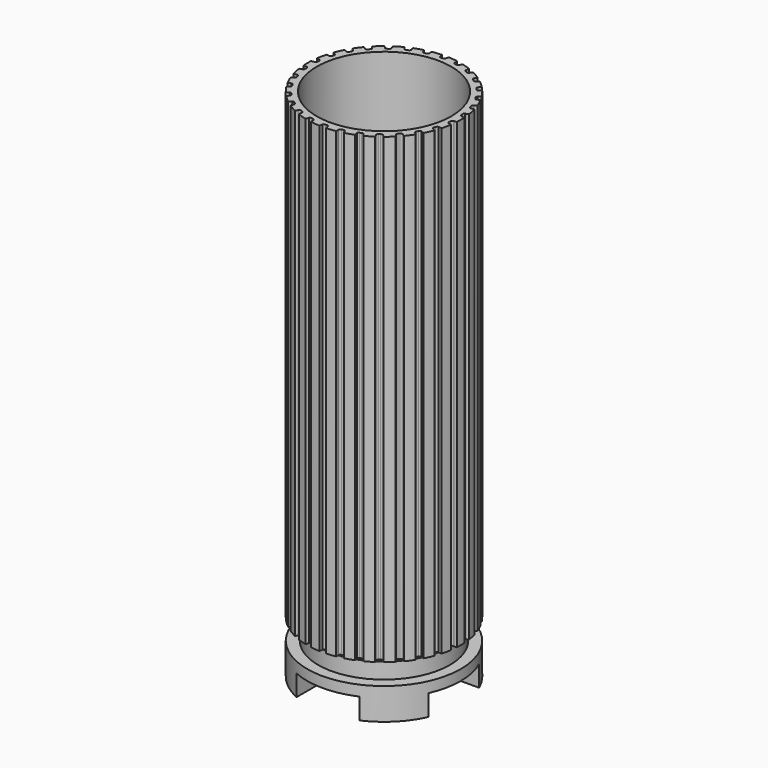
from build123d import *

# Parameters (mm, degrees)
CYLINDER001_R          = 36.5
CYLINDER001_DEPTH      = 400
CYLINDER002_R          = 100
CYLINDER002_DEPTH      = 400
CYLINDER_R             = 32
CYLINDER_DEPTH         = 240
PAD_DEPTH              = 220
CYLINDER006_R          = 19
CYLINDER006_DEPTH      = 55
CYLINDER005_R          = 15
CYLINDER005_DEPTH      = 90
BOX_W                  = 100
BOX_H                  = 30
BOX_DEPTH              = 10
BOX001_W               = 100
BOX001_H               = 30
BOX001_DEPTH           = 10
BOX001_PLACEMENT_ANGLE = 90
CYLINDER003_R          = 36.5
CYLINDER003_DEPTH      = 15
CYLINDER004_R          = 31.3
CYLINDER004_DEPTH      = 22.5
BOX002_W               = 100
BOX002_H               = 30
BOX002_DEPTH           = 10
BOX003_W               = 100
BOX003_H               = 30
BOX003_DEPTH           = 10
BOX003_PLACEMENT_ANGLE = 90
CYLINDER007_R          = 22
CYLINDER007_DEPTH      = 60
CHAMFER_SIZE           = 3


with BuildPart() as cylinder001:
    # Cylinder001 → Cylinder001 (new body)
    with BuildSketch(Plane.XY):
        Circle(CYLINDER001_R)
    extrude(amount=CYLINDER001_DEPTH)


with BuildPart() as cut001:
    # Cylinder002 → Cylinder002 (new body)
    with BuildSketch(Plane.XY):
        Circle(CYLINDER002_R)
    extrude(amount=CYLINDER002_DEPTH)

    # Cut001: cut Cylinder001
    add(cylinder001.part, mode=Mode.SUBTRACT)


with BuildPart() as cylinder:
    # Cylinder → Cylinder (new body)
    with BuildSketch(Plane.XY.offset(-10)):
        Circle(CYLINDER_R)
    extrude(amount=CYLINDER_DEPTH)


with BuildPart() as shade:
    # InvoluteGear → Pad (new body)
    with BuildSketch(Plane.XY):
        with BuildLine():
            Line((34.920851, -2.352474), (35.210847, -2.370096))
            add(Edge.make_bspline(
                [(35.210847, -2.370096), (35.34891, -2.371906), (35.765082, -2.362435), (36.457725, -2.219265)],
                knots=[0, 0, 0, 0, 1, 1, 1, 1], degree=3))
            add(Edge.make_bspline(
                [(36.457725, -2.219265), (37.288232, -2.045697), (38.490143, -1.681478), (39.991928, -0.920792)],
                knots=[0, 0, 0, 0, 1, 1, 1, 1], degree=3))
            ThreePointArc((39.991928, -0.920792), (40.002527, 0), (39.991928, 0.920792))
            add(Edge.make_bspline(
                [(39.991928, 0.920792), (38.490143, 1.681478), (37.288232, 2.045697), (36.457725, 2.219265)],
                knots=[0, 0, 0, 0, 1, 1, 1, 1], degree=3))
            add(Edge.make_bspline(
                [(36.457725, 2.219265), (35.765082, 2.362435), (35.34891, 2.371906), (35.210847, 2.370096)],
                knots=[0, 0, 0, 0, 1, 1, 1, 1], degree=3))
            Line((35.210847, 2.370096), (34.920851, 2.352474))
            ThreePointArc((34.920851, 2.352474), (34.429753, 2.671588), (34.223866, 3.219878))
            ThreePointArc((34.223866, 3.219878), (34.18669, 3.593166), (34.145443, 3.966026))
            ThreePointArc((34.145443, 3.966026), (34.232835, 4.545141), (34.646854, 4.959386))
            Line((34.646854, 4.959386), (34.934177, 5.002443))
            add(Edge.make_bspline(
                [(34.934177, 5.002443), (35.069599, 5.029378), (35.474707, 5.125169), (36.122448, 5.409219)],
                knots=[0, 0, 0, 0, 1, 1, 1, 1], degree=3))
            add(Edge.make_bspline(
                [(36.122448, 5.409219), (36.898719, 5.751666), (37.99864, 6.357817), (39.309452, 7.414119)],
                knots=[0, 0, 0, 0, 1, 1, 1, 1], degree=3))
            ThreePointArc((39.309452, 7.414119), (39.128376, 8.316993), (38.926565, 9.21546))
            add(Edge.make_bspline(
                [(38.926565, 9.21546), (37.299442, 9.647284), (36.048071, 9.753653), (35.199625, 9.750756)],
                knots=[0, 0, 0, 0, 1, 1, 1, 1], degree=3))
            add(Edge.make_bspline(
                [(35.199625, 9.750756), (34.492351, 9.746788), (34.083305, 9.669526), (33.948635, 9.639051)],
                knots=[0, 0, 0, 0, 1, 1, 1, 1], degree=3))
            Line((33.948635, 9.639051), (33.66864, 9.56152))
            ThreePointArc((33.66864, 9.56152), (33.121926, 9.771556), (32.806542, 10.265058))
            ThreePointArc((32.806542, 10.265058), (32.692568, 10.622459), (32.5747, 10.978595))
            ThreePointArc((32.5747, 10.978595), (32.539777, 11.563225), (32.858623, 12.054498))
            Line((32.858623, 12.054498), (33.130715, 12.156352))
            add(Edge.make_bspline(
                [(33.130715, 12.156352), (33.257577, 12.210853), (33.633917, 12.388778), (34.208446, 12.801294)],
                knots=[0, 0, 0, 0, 1, 1, 1, 1], degree=3))
            add(Edge.make_bspline(
                [(34.208446, 12.801294), (34.896555, 13.297653), (35.846414, 14.119245), (36.908964, 15.424997)],
                knots=[0, 0, 0, 0, 1, 1, 1, 1], degree=3))
            ThreePointArc((36.908964, 15.424997), (36.544127, 16.270494), (36.159924, 17.107368))
            add(Edge.make_bspline(
                [(36.159924, 17.107368), (34.478576, 17.191458), (33.232435, 17.035327), (32.403133, 16.856092)],
                knots=[0, 0, 0, 0, 1, 1, 1, 1], degree=3))
            add(Edge.make_bspline(
                [(32.403133, 16.856092), (31.71214, 16.705161), (31.328095, 16.544541), (31.202705, 16.486732)],
                knots=[0, 0, 0, 0, 1, 1, 1, 1], degree=3))
            Line((31.202705, 16.486732), (30.944948, 16.352682))
            ThreePointArc((30.944948, 16.352682), (30.366512, 16.444459), (29.955415, 16.861605))
            ThreePointArc((29.955415, 16.861605), (29.769623, 17.1875), (29.580286, 17.511348))
            ThreePointArc((29.580286, 17.511348), (29.424575, 18.075941), (29.634312, 18.62277))
            Line((29.634312, 18.62277), (29.879281, 18.778969))
            add(Edge.make_bspline(
                [(29.879281, 18.778969), (29.99204, 18.858656), (30.323163, 19.110938), (30.79937, 19.63389)],
                knots=[0, 0, 0, 0, 1, 1, 1, 1], degree=3))
            add(Edge.make_bspline(
                [(30.79937, 19.63389), (31.369244, 20.26247), (32.127527, 21.263594), (32.895377, 22.761729)],
                knots=[0, 0, 0, 0, 1, 1, 1, 1], degree=3))
            ThreePointArc((32.895377, 22.761729), (32.362724, 23.512896), (31.812921, 24.251602))
            add(Edge.make_bspline(
                [(31.812921, 24.251602), (30.150831, 23.984282), (28.964383, 23.572476), (28.190468, 23.224736)],
                knots=[0, 0, 0, 0, 1, 1, 1, 1], degree=3))
            add(Edge.make_bspline(
                [(28.190468, 23.224736), (27.545955, 22.933438), (27.203698, 22.69648), (27.093067, 22.613865)],
                knots=[0, 0, 0, 0, 1, 1, 1, 1], degree=3))
            Line((27.093067, 22.613865), (26.868813, 22.429153))
            ThreePointArc((26.868813, 22.429153), (26.283935, 22.398661), (25.795092, 22.72122))
            ThreePointArc((25.795092, 22.72122), (25.545603, 23.001365), (25.293072, 23.27877))
            ThreePointArc((25.293072, 23.27877), (25.023378, 23.798651), (25.11484, 24.377138))
            Line((25.11484, 24.377138), (25.32198, 24.580855))
            add(Edge.make_bspline(
                [(25.32198, 24.580855), (25.415707, 24.682245), (25.687142, 24.997858), (26.044215, 25.608392)],
                knots=[0, 0, 0, 0, 1, 1, 1, 1], degree=3))
            add(Edge.make_bspline(
                [(26.044215, 25.608392), (26.470946, 26.341719), (27.004514, 27.478622), (27.444105, 29.103664)],
                knots=[0, 0, 0, 0, 1, 1, 1, 1], degree=3))
            ThreePointArc((27.444105, 29.103664), (26.766915, 29.727671), (26.075541, 30.335924))
            add(Edge.make_bspline(
                [(26.075541, 30.335924), (24.505351, 29.728879), (23.430449, 29.079395), (22.745745, 28.578348)],
                knots=[0, 0, 0, 0, 1, 1, 1, 1], degree=3))
            add(Edge.make_bspline(
                [(22.745745, 28.578348), (22.17588, 28.159413), (21.890368, 27.856474), (21.799331, 27.752663)],
                knots=[0, 0, 0, 0, 1, 1, 1, 1], degree=3))
            Line((21.799331, 27.752663), (21.618381, 27.525363))
            ThreePointArc((21.618381, 27.525363), (21.052625, 27.373934), (20.507401, 27.587808))
            ThreePointArc((20.507401, 27.587808), (20.205118, 27.809959), (19.900429, 28.028798))
            ThreePointArc((19.900429, 28.028798), (19.52854, 28.481247), (19.497728, 29.066107))
            Line((19.497728, 29.066107), (19.657987, 29.30844))
            add(Edge.make_bspline(
                [(19.657987, 29.30844), (19.728586, 29.427101), (19.928469, 29.792252), (20.150802, 30.463684)],
                knots=[0, 0, 0, 0, 1, 1, 1, 1], degree=3))
            add(Edge.make_bspline(
                [(20.150802, 30.463684), (20.415742, 31.269708), (20.701274, 32.492702), (20.793393, 34.173629)],
                knots=[0, 0, 0, 0, 1, 1, 1, 1], degree=3))
            ThreePointArc((20.793393, 34.173629), (20.001264, 34.643205), (19.198535, 35.094421))
            add(Edge.make_bspline(
                [(19.198535, 35.094421), (17.788869, 34.17418), (16.872491, 33.315405), (16.306923, 32.682949)],
                knots=[0, 0, 0, 0, 1, 1, 1, 1], degree=3))
            add(Edge.make_bspline(
                [(16.306923, 32.682949), (15.836613, 32.154687), (15.620324, 31.799007), (15.55286, 31.678536)],
                knots=[0, 0, 0, 0, 1, 1, 1, 1], degree=3))
            Line((15.55286, 31.678536), (15.423123, 31.418582))
            ThreePointArc((15.423123, 31.418582), (14.901213, 31.152835), (14.323437, 31.248677))
            ThreePointArc((14.323437, 31.248677), (13.981572, 31.403125), (13.638042, 31.553834))
            ThreePointArc((13.638042, 31.553834), (13.18021, 31.919075), (13.028473, 32.484749))
            Line((13.028473, 32.484749), (13.134845, 32.755106))
            add(Edge.make_bspline(
                [(13.134845, 32.755106), (13.17923, 32.885852), (13.298827, 33.284582), (13.376703, 33.987567)],
                knots=[0, 0, 0, 0, 1, 1, 1, 1], degree=3))
            add(Edge.make_bspline(
                [(13.376703, 33.987567), (13.468271, 34.831061), (13.493289, 36.086696), (13.23391, 37.750043)],
                knots=[0, 0, 0, 0, 1, 1, 1, 1], degree=3))
            ThreePointArc((13.23391, 37.750043), (12.361461, 38.044664), (11.48246, 38.319124))
            add(Edge.make_bspline(
                [(11.48246, 38.319124), (10.294928, 37.125906), (9.577124, 36.095371), (9.155411, 35.359148)],
                knots=[0, 0, 0, 0, 1, 1, 1, 1], degree=3))
            add(Edge.make_bspline(
                [(9.155411, 35.359148), (8.805209, 34.744647), (8.667598, 34.351771), (8.626655, 34.219906)],
                knots=[0, 0, 0, 0, 1, 1, 1, 1], degree=3))
            Line((8.626655, 34.219906), (8.553801, 33.938658))
            ThreePointArc((8.553801, 33.938658), (8.098547, 33.570207), (7.51347, 33.543828))
            ThreePointArc((7.51347, 33.543828), (7.146964, 33.623824), (6.779607, 33.699815))
            ThreePointArc((6.779607, 33.699815), (6.255842, 33.961886), (5.98981, 34.483651))
            Line((5.98981, 34.483651), (6.037648, 34.770216))
            add(Edge.make_bspline(
                [(6.037648, 34.770216), (6.053879, 34.907334), (6.087962, 35.322216), (6.017977, 36.02603)],
                knots=[0, 0, 0, 0, 1, 1, 1, 1], degree=3))
            add(Edge.make_bspline(
                [(6.017977, 36.02603), (5.932172, 36.87013), (5.695582, 38.103527), (5.096042, 39.676599)],
                knots=[0, 0, 0, 0, 1, 1, 1, 1], degree=3))
            ThreePointArc((5.096042, 39.676599), (4.181403, 39.783389), (3.264547, 39.869097))
            add(Edge.make_bspline(
                [(3.264547, 39.869097), (2.351049, 38.455052), (1.863191, 37.297797), (1.603763, 36.489982)],
                knots=[0, 0, 0, 0, 1, 1, 1, 1], degree=3))
            add(Edge.make_bspline(
                [(1.603763, 36.489982), (1.388976, 35.816099), (1.336055, 35.403197), (1.323423, 35.265701)],
                knots=[0, 0, 0, 0, 1, 1, 1, 1], degree=3))
            Line((1.323423, 35.265701), (1.310636, 34.975452))
            ThreePointArc((1.310636, 34.975452), (0.941936, 34.5204), (0.375129, 34.372953))
            ThreePointArc((0.375129, 34.372953), (0, 34.375), (-0.375129, 34.372953))
            ThreePointArc((-0.375129, 34.372953), (-0.941936, 34.5204), (-1.310636, 34.975452))
            Line((-1.310636, 34.975452), (-1.323423, 35.265701))
            add(Edge.make_bspline(
                [(-1.323423, 35.265701), (-1.336055, 35.403197), (-1.388976, 35.816099), (-1.603763, 36.489982)],
                knots=[0, 0, 0, 0, 1, 1, 1, 1], degree=3))
            add(Edge.make_bspline(
                [(-1.603763, 36.489982), (-1.863191, 37.297797), (-2.351049, 38.455052), (-3.264547, 39.869097)],
                knots=[0, 0, 0, 0, 1, 1, 1, 1], degree=3))
            ThreePointArc((-3.264547, 39.869097), (-4.181403, 39.783389), (-5.096042, 39.676599))
            add(Edge.make_bspline(
                [(-5.096042, 39.676599), (-5.695582, 38.103527), (-5.932172, 36.87013), (-6.017977, 36.02603)],
                knots=[0, 0, 0, 0, 1, 1, 1, 1], degree=3))
            add(Edge.make_bspline(
                [(-6.017977, 36.02603), (-6.087962, 35.322216), (-6.053879, 34.907334), (-6.037648, 34.770216)],
                knots=[0, 0, 0, 0, 1, 1, 1, 1], degree=3))
            Line((-6.037648, 34.770216), (-5.98981, 34.483651))
            ThreePointArc((-5.98981, 34.483651), (-6.255842, 33.961886), (-6.779607, 33.699815))
            ThreePointArc((-6.779607, 33.699815), (-7.146964, 33.623824), (-7.51347, 33.543828))
            ThreePointArc((-7.51347, 33.543828), (-8.098547, 33.570207), (-8.553801, 33.938658))
            Line((-8.553801, 33.938658), (-8.626655, 34.219906))
            add(Edge.make_bspline(
                [(-8.626655, 34.219906), (-8.667598, 34.351771), (-8.805209, 34.744647), (-9.155411, 35.359148)],
                knots=[0, 0, 0, 0, 1, 1, 1, 1], degree=3))
            add(Edge.make_bspline(
                [(-9.155411, 35.359148), (-9.577124, 36.095371), (-10.294928, 37.125906), (-11.48246, 38.319124)],
                knots=[0, 0, 0, 0, 1, 1, 1, 1], degree=3))
            ThreePointArc((-11.48246, 38.319124), (-12.361461, 38.044664), (-13.23391, 37.750043))
            add(Edge.make_bspline(
                [(-13.23391, 37.750043), (-13.493289, 36.086696), (-13.468271, 34.831061), (-13.376703, 33.987567)],
                knots=[0, 0, 0, 0, 1, 1, 1, 1], degree=3))
            add(Edge.make_bspline(
                [(-13.376703, 33.987567), (-13.298827, 33.284582), (-13.17923, 32.885852), (-13.134845, 32.755106)],
                knots=[0, 0, 0, 0, 1, 1, 1, 1], degree=3))
            Line((-13.134845, 32.755106), (-13.028473, 32.484749))
            ThreePointArc((-13.028473, 32.484749), (-13.18021, 31.919075), (-13.638042, 31.553834))
            ThreePointArc((-13.638042, 31.553834), (-13.981572, 31.403125), (-14.323437, 31.248677))
            ThreePointArc((-14.323437, 31.248677), (-14.901213, 31.152835), (-15.423123, 31.418582))
            Line((-15.423123, 31.418582), (-15.55286, 31.678536))
            add(Edge.make_bspline(
                [(-15.55286, 31.678536), (-15.620324, 31.799007), (-15.836613, 32.154687), (-16.306923, 32.682949)],
                knots=[0, 0, 0, 0, 1, 1, 1, 1], degree=3))
            add(Edge.make_bspline(
                [(-16.306923, 32.682949), (-16.872491, 33.315405), (-17.788869, 34.17418), (-19.198535, 35.094421)],
                knots=[0, 0, 0, 0, 1, 1, 1, 1], degree=3))
            ThreePointArc((-19.198535, 35.094421), (-20.001264, 34.643205), (-20.793393, 34.173629))
            add(Edge.make_bspline(
                [(-20.793393, 34.173629), (-20.701274, 32.492702), (-20.415742, 31.269708), (-20.150802, 30.463684)],
                knots=[0, 0, 0, 0, 1, 1, 1, 1], degree=3))
            add(Edge.make_bspline(
                [(-20.150802, 30.463684), (-19.928469, 29.792252), (-19.728586, 29.427101), (-19.657987, 29.30844)],
                knots=[0, 0, 0, 0, 1, 1, 1, 1], degree=3))
            Line((-19.657987, 29.30844), (-19.497728, 29.066107))
            ThreePointArc((-19.497728, 29.066107), (-19.52854, 28.481247), (-19.900429, 28.028798))
            ThreePointArc((-19.900429, 28.028798), (-20.205118, 27.809959), (-20.507401, 27.587808))
            ThreePointArc((-20.507401, 27.587808), (-21.052625, 27.373934), (-21.618381, 27.525363))
            Line((-21.618381, 27.525363), (-21.799331, 27.752663))
            add(Edge.make_bspline(
                [(-21.799331, 27.752663), (-21.890368, 27.856474), (-22.17588, 28.159413), (-22.745745, 28.578348)],
                knots=[0, 0, 0, 0, 1, 1, 1, 1], degree=3))
            add(Edge.make_bspline(
                [(-22.745745, 28.578348), (-23.430449, 29.079395), (-24.505351, 29.728879), (-26.075541, 30.335924)],
                knots=[0, 0, 0, 0, 1, 1, 1, 1], degree=3))
            ThreePointArc((-26.075541, 30.335924), (-26.766915, 29.727671), (-27.444105, 29.103664))
            add(Edge.make_bspline(
                [(-27.444105, 29.103664), (-27.004514, 27.478622), (-26.470946, 26.341719), (-26.044215, 25.608392)],
                knots=[0, 0, 0, 0, 1, 1, 1, 1], degree=3))
            add(Edge.make_bspline(
                [(-26.044215, 25.608392), (-25.687142, 24.997858), (-25.415707, 24.682245), (-25.32198, 24.580855)],
                knots=[0, 0, 0, 0, 1, 1, 1, 1], degree=3))
            Line((-25.32198, 24.580855), (-25.11484, 24.377138))
            ThreePointArc((-25.11484, 24.377138), (-25.023378, 23.798651), (-25.293072, 23.27877))
            ThreePointArc((-25.293072, 23.27877), (-25.545603, 23.001365), (-25.795092, 22.72122))
            ThreePointArc((-25.795092, 22.72122), (-26.283935, 22.398661), (-26.868813, 22.429153))
            Line((-26.868813, 22.429153), (-27.093067, 22.613865))
            add(Edge.make_bspline(
                [(-27.093067, 22.613865), (-27.203698, 22.69648), (-27.545955, 22.933438), (-28.190468, 23.224736)],
                knots=[0, 0, 0, 0, 1, 1, 1, 1], degree=3))
            add(Edge.make_bspline(
                [(-28.190468, 23.224736), (-28.964383, 23.572476), (-30.150831, 23.984282), (-31.812921, 24.251602)],
                knots=[0, 0, 0, 0, 1, 1, 1, 1], degree=3))
            ThreePointArc((-31.812921, 24.251602), (-32.362724, 23.512896), (-32.895377, 22.761729))
            add(Edge.make_bspline(
                [(-32.895377, 22.761729), (-32.127527, 21.263594), (-31.369244, 20.26247), (-30.79937, 19.63389)],
                knots=[0, 0, 0, 0, 1, 1, 1, 1], degree=3))
            add(Edge.make_bspline(
                [(-30.79937, 19.63389), (-30.323163, 19.110938), (-29.99204, 18.858656), (-29.879281, 18.778969)],
                knots=[0, 0, 0, 0, 1, 1, 1, 1], degree=3))
            Line((-29.879281, 18.778969), (-29.634312, 18.62277))
            ThreePointArc((-29.634312, 18.62277), (-29.424575, 18.075941), (-29.580286, 17.511348))
            ThreePointArc((-29.580286, 17.511348), (-29.769623, 17.1875), (-29.955415, 16.861605))
            ThreePointArc((-29.955415, 16.861605), (-30.366512, 16.444459), (-30.944948, 16.352682))
            Line((-30.944948, 16.352682), (-31.202705, 16.486732))
            add(Edge.make_bspline(
                [(-31.202705, 16.486732), (-31.328095, 16.544541), (-31.71214, 16.705161), (-32.403133, 16.856092)],
                knots=[0, 0, 0, 0, 1, 1, 1, 1], degree=3))
            add(Edge.make_bspline(
                [(-32.403133, 16.856092), (-33.232435, 17.035327), (-34.478576, 17.191458), (-36.159924, 17.107368)],
                knots=[0, 0, 0, 0, 1, 1, 1, 1], degree=3))
            ThreePointArc((-36.159924, 17.107368), (-36.544127, 16.270494), (-36.908964, 15.424997))
            add(Edge.make_bspline(
                [(-36.908964, 15.424997), (-35.846414, 14.119245), (-34.896555, 13.297653), (-34.208446, 12.801294)],
                knots=[0, 0, 0, 0, 1, 1, 1, 1], degree=3))
            add(Edge.make_bspline(
                [(-34.208446, 12.801294), (-33.633917, 12.388778), (-33.257577, 12.210853), (-33.130715, 12.156352)],
                knots=[0, 0, 0, 0, 1, 1, 1, 1], degree=3))
            Line((-33.130715, 12.156352), (-32.858623, 12.054498))
            ThreePointArc((-32.858623, 12.054498), (-32.539777, 11.563225), (-32.5747, 10.978595))
            ThreePointArc((-32.5747, 10.978595), (-32.692568, 10.622459), (-32.806542, 10.265058))
            ThreePointArc((-32.806542, 10.265058), (-33.121926, 9.771556), (-33.66864, 9.56152))
            Line((-33.66864, 9.56152), (-33.948635, 9.639051))
            add(Edge.make_bspline(
                [(-33.948635, 9.639051), (-34.083305, 9.669526), (-34.492351, 9.746788), (-35.199625, 9.750756)],
                knots=[0, 0, 0, 0, 1, 1, 1, 1], degree=3))
            add(Edge.make_bspline(
                [(-35.199625, 9.750756), (-36.048071, 9.753653), (-37.299442, 9.647284), (-38.926565, 9.21546)],
                knots=[0, 0, 0, 0, 1, 1, 1, 1], degree=3))
            ThreePointArc((-38.926565, 9.21546), (-39.128376, 8.316993), (-39.309452, 7.414119))
            add(Edge.make_bspline(
                [(-39.309452, 7.414119), (-37.99864, 6.357817), (-36.898719, 5.751666), (-36.122448, 5.409219)],
                knots=[0, 0, 0, 0, 1, 1, 1, 1], degree=3))
            add(Edge.make_bspline(
                [(-36.122448, 5.409219), (-35.474707, 5.125169), (-35.069599, 5.029378), (-34.934177, 5.002443)],
                knots=[0, 0, 0, 0, 1, 1, 1, 1], degree=3))
            Line((-34.934177, 5.002443), (-34.646854, 4.959386))
            ThreePointArc((-34.646854, 4.959386), (-34.232835, 4.545141), (-34.145443, 3.966026))
            ThreePointArc((-34.145443, 3.966026), (-34.18669, 3.593166), (-34.223866, 3.219878))
            ThreePointArc((-34.223866, 3.219878), (-34.429753, 2.671588), (-34.920851, 2.352474))
            Line((-34.920851, 2.352474), (-35.210847, 2.370096))
            add(Edge.make_bspline(
                [(-35.210847, 2.370096), (-35.34891, 2.371906), (-35.765082, 2.362435), (-36.457725, 2.219265)],
                knots=[0, 0, 0, 0, 1, 1, 1, 1], degree=3))
            add(Edge.make_bspline(
                [(-36.457725, 2.219265), (-37.288232, 2.045697), (-38.490143, 1.681478), (-39.991928, 0.920792)],
                knots=[0, 0, 0, 0, 1, 1, 1, 1], degree=3))
            ThreePointArc((-39.991928, 0.920792), (-40.002527, 0), (-39.991928, -0.920792))
            add(Edge.make_bspline(
                [(-39.991928, -0.920792), (-38.490143, -1.681478), (-37.288232, -2.045697), (-36.457725, -2.219265)],
                knots=[0, 0, 0, 0, 1, 1, 1, 1], degree=3))
            add(Edge.make_bspline(
                [(-36.457725, -2.219265), (-35.765082, -2.362435), (-35.34891, -2.371906), (-35.210847, -2.370096)],
                knots=[0, 0, 0, 0, 1, 1, 1, 1], degree=3))
            Line((-35.210847, -2.370096), (-34.920851, -2.352474))
            ThreePointArc((-34.920851, -2.352474), (-34.429753, -2.671588), (-34.223866, -3.219878))
            ThreePointArc((-34.223866, -3.219878), (-34.18669, -3.593166), (-34.145443, -3.966026))
            ThreePointArc((-34.145443, -3.966026), (-34.232835, -4.545141), (-34.646854, -4.959386))
            Line((-34.646854, -4.959386), (-34.934177, -5.002443))
            add(Edge.make_bspline(
                [(-34.934177, -5.002443), (-35.069599, -5.029378), (-35.474707, -5.125169), (-36.122448, -5.409219)],
                knots=[0, 0, 0, 0, 1, 1, 1, 1], degree=3))
            add(Edge.make_bspline(
                [(-36.122448, -5.409219), (-36.898719, -5.751666), (-37.99864, -6.357817), (-39.309452, -7.414119)],
                knots=[0, 0, 0, 0, 1, 1, 1, 1], degree=3))
            ThreePointArc((-39.309452, -7.414119), (-39.128376, -8.316993), (-38.926565, -9.21546))
            add(Edge.make_bspline(
                [(-38.926565, -9.21546), (-37.299442, -9.647284), (-36.048071, -9.753653), (-35.199625, -9.750756)],
                knots=[0, 0, 0, 0, 1, 1, 1, 1], degree=3))
            add(Edge.make_bspline(
                [(-35.199625, -9.750756), (-34.492351, -9.746788), (-34.083305, -9.669526), (-33.948635, -9.639051)],
                knots=[0, 0, 0, 0, 1, 1, 1, 1], degree=3))
            Line((-33.948635, -9.639051), (-33.66864, -9.56152))
            ThreePointArc((-33.66864, -9.56152), (-33.121926, -9.771556), (-32.806542, -10.265058))
            ThreePointArc((-32.806542, -10.265058), (-32.692568, -10.622459), (-32.5747, -10.978595))
            ThreePointArc((-32.5747, -10.978595), (-32.539777, -11.563225), (-32.858623, -12.054498))
            Line((-32.858623, -12.054498), (-33.130715, -12.156352))
            add(Edge.make_bspline(
                [(-33.130715, -12.156352), (-33.257577, -12.210853), (-33.633917, -12.388778), (-34.208446, -12.801294)],
                knots=[0, 0, 0, 0, 1, 1, 1, 1], degree=3))
            add(Edge.make_bspline(
                [(-34.208446, -12.801294), (-34.896555, -13.297653), (-35.846414, -14.119245), (-36.908964, -15.424997)],
                knots=[0, 0, 0, 0, 1, 1, 1, 1], degree=3))
            ThreePointArc((-36.908964, -15.424997), (-36.544127, -16.270494), (-36.159924, -17.107368))
            add(Edge.make_bspline(
                [(-36.159924, -17.107368), (-34.478576, -17.191458), (-33.232435, -17.035327), (-32.403133, -16.856092)],
                knots=[0, 0, 0, 0, 1, 1, 1, 1], degree=3))
            add(Edge.make_bspline(
                [(-32.403133, -16.856092), (-31.71214, -16.705161), (-31.328095, -16.544541), (-31.202705, -16.486732)],
                knots=[0, 0, 0, 0, 1, 1, 1, 1], degree=3))
            Line((-31.202705, -16.486732), (-30.944948, -16.352682))
            ThreePointArc((-30.944948, -16.352682), (-30.366512, -16.444459), (-29.955415, -16.861605))
            ThreePointArc((-29.955415, -16.861605), (-29.769623, -17.1875), (-29.580286, -17.511348))
            ThreePointArc((-29.580286, -17.511348), (-29.424575, -18.075941), (-29.634312, -18.62277))
            Line((-29.634312, -18.62277), (-29.879281, -18.778969))
            add(Edge.make_bspline(
                [(-29.879281, -18.778969), (-29.99204, -18.858656), (-30.323163, -19.110938), (-30.79937, -19.63389)],
                knots=[0, 0, 0, 0, 1, 1, 1, 1], degree=3))
            add(Edge.make_bspline(
                [(-30.79937, -19.63389), (-31.369244, -20.26247), (-32.127527, -21.263594), (-32.895377, -22.761729)],
                knots=[0, 0, 0, 0, 1, 1, 1, 1], degree=3))
            ThreePointArc((-32.895377, -22.761729), (-32.362724, -23.512896), (-31.812921, -24.251602))
            add(Edge.make_bspline(
                [(-31.812921, -24.251602), (-30.150831, -23.984282), (-28.964383, -23.572476), (-28.190468, -23.224736)],
                knots=[0, 0, 0, 0, 1, 1, 1, 1], degree=3))
            add(Edge.make_bspline(
                [(-28.190468, -23.224736), (-27.545955, -22.933438), (-27.203698, -22.69648), (-27.093067, -22.613865)],
                knots=[0, 0, 0, 0, 1, 1, 1, 1], degree=3))
            Line((-27.093067, -22.613865), (-26.868813, -22.429153))
            ThreePointArc((-26.868813, -22.429153), (-26.283935, -22.398661), (-25.795092, -22.72122))
            ThreePointArc((-25.795092, -22.72122), (-25.545603, -23.001365), (-25.293072, -23.27877))
            ThreePointArc((-25.293072, -23.27877), (-25.023378, -23.798651), (-25.11484, -24.377138))
            Line((-25.11484, -24.377138), (-25.32198, -24.580855))
            add(Edge.make_bspline(
                [(-25.32198, -24.580855), (-25.415707, -24.682245), (-25.687142, -24.997858), (-26.044215, -25.608392)],
                knots=[0, 0, 0, 0, 1, 1, 1, 1], degree=3))
            add(Edge.make_bspline(
                [(-26.044215, -25.608392), (-26.470946, -26.341719), (-27.004514, -27.478622), (-27.444105, -29.103664)],
                knots=[0, 0, 0, 0, 1, 1, 1, 1], degree=3))
            ThreePointArc((-27.444105, -29.103664), (-26.766915, -29.727671), (-26.075541, -30.335924))
            add(Edge.make_bspline(
                [(-26.075541, -30.335924), (-24.505351, -29.728879), (-23.430449, -29.079395), (-22.745745, -28.578348)],
                knots=[0, 0, 0, 0, 1, 1, 1, 1], degree=3))
            add(Edge.make_bspline(
                [(-22.745745, -28.578348), (-22.17588, -28.159413), (-21.890368, -27.856474), (-21.799331, -27.752663)],
                knots=[0, 0, 0, 0, 1, 1, 1, 1], degree=3))
            Line((-21.799331, -27.752663), (-21.618381, -27.525363))
            ThreePointArc((-21.618381, -27.525363), (-21.052625, -27.373934), (-20.507401, -27.587808))
            ThreePointArc((-20.507401, -27.587808), (-20.205118, -27.809959), (-19.900429, -28.028798))
            ThreePointArc((-19.900429, -28.028798), (-19.52854, -28.481247), (-19.497728, -29.066107))
            Line((-19.497728, -29.066107), (-19.657987, -29.30844))
            add(Edge.make_bspline(
                [(-19.657987, -29.30844), (-19.728586, -29.427101), (-19.928469, -29.792252), (-20.150802, -30.463684)],
                knots=[0, 0, 0, 0, 1, 1, 1, 1], degree=3))
            add(Edge.make_bspline(
                [(-20.150802, -30.463684), (-20.415742, -31.269708), (-20.701274, -32.492702), (-20.793393, -34.173629)],
                knots=[0, 0, 0, 0, 1, 1, 1, 1], degree=3))
            ThreePointArc((-20.793393, -34.173629), (-20.001264, -34.643205), (-19.198535, -35.094421))
            add(Edge.make_bspline(
                [(-19.198535, -35.094421), (-17.788869, -34.17418), (-16.872491, -33.315405), (-16.306923, -32.682949)],
                knots=[0, 0, 0, 0, 1, 1, 1, 1], degree=3))
            add(Edge.make_bspline(
                [(-16.306923, -32.682949), (-15.836613, -32.154687), (-15.620324, -31.799007), (-15.55286, -31.678536)],
                knots=[0, 0, 0, 0, 1, 1, 1, 1], degree=3))
            Line((-15.55286, -31.678536), (-15.423123, -31.418582))
            ThreePointArc((-15.423123, -31.418582), (-14.901213, -31.152835), (-14.323437, -31.248677))
            ThreePointArc((-14.323437, -31.248677), (-13.981572, -31.403125), (-13.638042, -31.553834))
            ThreePointArc((-13.638042, -31.553834), (-13.18021, -31.919075), (-13.028473, -32.484749))
            Line((-13.028473, -32.484749), (-13.134845, -32.755106))
            add(Edge.make_bspline(
                [(-13.134845, -32.755106), (-13.17923, -32.885852), (-13.298827, -33.284582), (-13.376703, -33.987567)],
                knots=[0, 0, 0, 0, 1, 1, 1, 1], degree=3))
            add(Edge.make_bspline(
                [(-13.376703, -33.987567), (-13.468271, -34.831061), (-13.493289, -36.086696), (-13.23391, -37.750043)],
                knots=[0, 0, 0, 0, 1, 1, 1, 1], degree=3))
            ThreePointArc((-13.23391, -37.750043), (-12.361461, -38.044664), (-11.48246, -38.319124))
            add(Edge.make_bspline(
                [(-11.48246, -38.319124), (-10.294928, -37.125906), (-9.577124, -36.095371), (-9.155411, -35.359148)],
                knots=[0, 0, 0, 0, 1, 1, 1, 1], degree=3))
            add(Edge.make_bspline(
                [(-9.155411, -35.359148), (-8.805209, -34.744647), (-8.667598, -34.351771), (-8.626655, -34.219906)],
                knots=[0, 0, 0, 0, 1, 1, 1, 1], degree=3))
            Line((-8.626655, -34.219906), (-8.553801, -33.938658))
            ThreePointArc((-8.553801, -33.938658), (-8.098547, -33.570207), (-7.51347, -33.543828))
            ThreePointArc((-7.51347, -33.543828), (-7.146964, -33.623824), (-6.779607, -33.699815))
            ThreePointArc((-6.779607, -33.699815), (-6.255842, -33.961886), (-5.98981, -34.483651))
            Line((-5.98981, -34.483651), (-6.037648, -34.770216))
            add(Edge.make_bspline(
                [(-6.037648, -34.770216), (-6.053879, -34.907334), (-6.087962, -35.322216), (-6.017977, -36.02603)],
                knots=[0, 0, 0, 0, 1, 1, 1, 1], degree=3))
            add(Edge.make_bspline(
                [(-6.017977, -36.02603), (-5.932172, -36.87013), (-5.695582, -38.103527), (-5.096042, -39.676599)],
                knots=[0, 0, 0, 0, 1, 1, 1, 1], degree=3))
            ThreePointArc((-5.096042, -39.676599), (-4.181403, -39.783389), (-3.264547, -39.869097))
            add(Edge.make_bspline(
                [(-3.264547, -39.869097), (-2.351049, -38.455052), (-1.863191, -37.297797), (-1.603763, -36.489982)],
                knots=[0, 0, 0, 0, 1, 1, 1, 1], degree=3))
            add(Edge.make_bspline(
                [(-1.603763, -36.489982), (-1.388976, -35.816099), (-1.336055, -35.403197), (-1.323423, -35.265701)],
                knots=[0, 0, 0, 0, 1, 1, 1, 1], degree=3))
            Line((-1.323423, -35.265701), (-1.310636, -34.975452))
            ThreePointArc((-1.310636, -34.975452), (-0.941936, -34.5204), (-0.375129, -34.372953))
            ThreePointArc((-0.375129, -34.372953), (0, -34.375), (0.375129, -34.372953))
            ThreePointArc((0.375129, -34.372953), (0.941936, -34.5204), (1.310636, -34.975452))
            Line((1.310636, -34.975452), (1.323423, -35.265701))
            add(Edge.make_bspline(
                [(1.323423, -35.265701), (1.336055, -35.403197), (1.388976, -35.816099), (1.603763, -36.489982)],
                knots=[0, 0, 0, 0, 1, 1, 1, 1], degree=3))
            add(Edge.make_bspline(
                [(1.603763, -36.489982), (1.863191, -37.297797), (2.351049, -38.455052), (3.264547, -39.869097)],
                knots=[0, 0, 0, 0, 1, 1, 1, 1], degree=3))
            ThreePointArc((3.264547, -39.869097), (4.181403, -39.783389), (5.096042, -39.676599))
            add(Edge.make_bspline(
                [(5.096042, -39.676599), (5.695582, -38.103527), (5.932172, -36.87013), (6.017977, -36.02603)],
                knots=[0, 0, 0, 0, 1, 1, 1, 1], degree=3))
            add(Edge.make_bspline(
                [(6.017977, -36.02603), (6.087962, -35.322216), (6.053879, -34.907334), (6.037648, -34.770216)],
                knots=[0, 0, 0, 0, 1, 1, 1, 1], degree=3))
            Line((6.037648, -34.770216), (5.98981, -34.483651))
            ThreePointArc((5.98981, -34.483651), (6.255842, -33.961886), (6.779607, -33.699815))
            ThreePointArc((6.779607, -33.699815), (7.146964, -33.623824), (7.51347, -33.543828))
            ThreePointArc((7.51347, -33.543828), (8.098547, -33.570207), (8.553801, -33.938658))
            Line((8.553801, -33.938658), (8.626655, -34.219906))
            add(Edge.make_bspline(
                [(8.626655, -34.219906), (8.667598, -34.351771), (8.805209, -34.744647), (9.155411, -35.359148)],
                knots=[0, 0, 0, 0, 1, 1, 1, 1], degree=3))
            add(Edge.make_bspline(
                [(9.155411, -35.359148), (9.577124, -36.095371), (10.294928, -37.125906), (11.48246, -38.319124)],
                knots=[0, 0, 0, 0, 1, 1, 1, 1], degree=3))
            ThreePointArc((11.48246, -38.319124), (12.361461, -38.044664), (13.23391, -37.750043))
            add(Edge.make_bspline(
                [(13.23391, -37.750043), (13.493289, -36.086696), (13.468271, -34.831061), (13.376703, -33.987567)],
                knots=[0, 0, 0, 0, 1, 1, 1, 1], degree=3))
            add(Edge.make_bspline(
                [(13.376703, -33.987567), (13.298827, -33.284582), (13.17923, -32.885852), (13.134845, -32.755106)],
                knots=[0, 0, 0, 0, 1, 1, 1, 1], degree=3))
            Line((13.134845, -32.755106), (13.028473, -32.484749))
            ThreePointArc((13.028473, -32.484749), (13.18021, -31.919075), (13.638042, -31.553834))
            ThreePointArc((13.638042, -31.553834), (13.981572, -31.403125), (14.323437, -31.248677))
            ThreePointArc((14.323437, -31.248677), (14.901213, -31.152835), (15.423123, -31.418582))
            Line((15.423123, -31.418582), (15.55286, -31.678536))
            add(Edge.make_bspline(
                [(15.55286, -31.678536), (15.620324, -31.799007), (15.836613, -32.154687), (16.306923, -32.682949)],
                knots=[0, 0, 0, 0, 1, 1, 1, 1], degree=3))
            add(Edge.make_bspline(
                [(16.306923, -32.682949), (16.872491, -33.315405), (17.788869, -34.17418), (19.198535, -35.094421)],
                knots=[0, 0, 0, 0, 1, 1, 1, 1], degree=3))
            ThreePointArc((19.198535, -35.094421), (20.001264, -34.643205), (20.793393, -34.173629))
            add(Edge.make_bspline(
                [(20.793393, -34.173629), (20.701274, -32.492702), (20.415742, -31.269708), (20.150802, -30.463684)],
                knots=[0, 0, 0, 0, 1, 1, 1, 1], degree=3))
            add(Edge.make_bspline(
                [(20.150802, -30.463684), (19.928469, -29.792252), (19.728586, -29.427101), (19.657987, -29.30844)],
                knots=[0, 0, 0, 0, 1, 1, 1, 1], degree=3))
            Line((19.657987, -29.30844), (19.497728, -29.066107))
            ThreePointArc((19.497728, -29.066107), (19.52854, -28.481247), (19.900429, -28.028798))
            ThreePointArc((19.900429, -28.028798), (20.205118, -27.809959), (20.507401, -27.587808))
            ThreePointArc((20.507401, -27.587808), (21.052625, -27.373934), (21.618381, -27.525363))
            Line((21.618381, -27.525363), (21.799331, -27.752663))
            add(Edge.make_bspline(
                [(21.799331, -27.752663), (21.890368, -27.856474), (22.17588, -28.159413), (22.745745, -28.578348)],
                knots=[0, 0, 0, 0, 1, 1, 1, 1], degree=3))
            add(Edge.make_bspline(
                [(22.745745, -28.578348), (23.430449, -29.079395), (24.505351, -29.728879), (26.075541, -30.335924)],
                knots=[0, 0, 0, 0, 1, 1, 1, 1], degree=3))
            ThreePointArc((26.075541, -30.335924), (26.766915, -29.727671), (27.444105, -29.103664))
            add(Edge.make_bspline(
                [(27.444105, -29.103664), (27.004514, -27.478622), (26.470946, -26.341719), (26.044215, -25.608392)],
                knots=[0, 0, 0, 0, 1, 1, 1, 1], degree=3))
            add(Edge.make_bspline(
                [(26.044215, -25.608392), (25.687142, -24.997858), (25.415707, -24.682245), (25.32198, -24.580855)],
                knots=[0, 0, 0, 0, 1, 1, 1, 1], degree=3))
            Line((25.32198, -24.580855), (25.11484, -24.377138))
            ThreePointArc((25.11484, -24.377138), (25.023378, -23.798651), (25.293072, -23.27877))
            ThreePointArc((25.293072, -23.27877), (25.545603, -23.001365), (25.795092, -22.72122))
            ThreePointArc((25.795092, -22.72122), (26.283935, -22.398661), (26.868813, -22.429153))
            Line((26.868813, -22.429153), (27.093067, -22.613865))
            add(Edge.make_bspline(
                [(27.093067, -22.613865), (27.203698, -22.69648), (27.545955, -22.933438), (28.190468, -23.224736)],
                knots=[0, 0, 0, 0, 1, 1, 1, 1], degree=3))
            add(Edge.make_bspline(
                [(28.190468, -23.224736), (28.964383, -23.572476), (30.150831, -23.984282), (31.812921, -24.251602)],
                knots=[0, 0, 0, 0, 1, 1, 1, 1], degree=3))
            ThreePointArc((31.812921, -24.251602), (32.362724, -23.512896), (32.895377, -22.761729))
            add(Edge.make_bspline(
                [(32.895377, -22.761729), (32.127527, -21.263594), (31.369244, -20.26247), (30.79937, -19.63389)],
                knots=[0, 0, 0, 0, 1, 1, 1, 1], degree=3))
            add(Edge.make_bspline(
                [(30.79937, -19.63389), (30.323163, -19.110938), (29.99204, -18.858656), (29.879281, -18.778969)],
                knots=[0, 0, 0, 0, 1, 1, 1, 1], degree=3))
            Line((29.879281, -18.778969), (29.634312, -18.62277))
            ThreePointArc((29.634312, -18.62277), (29.424575, -18.075941), (29.580286, -17.511348))
            ThreePointArc((29.580286, -17.511348), (29.769623, -17.1875), (29.955415, -16.861605))
            ThreePointArc((29.955415, -16.861605), (30.366512, -16.444459), (30.944948, -16.352682))
            Line((30.944948, -16.352682), (31.202705, -16.486732))
            add(Edge.make_bspline(
                [(31.202705, -16.486732), (31.328095, -16.544541), (31.71214, -16.705161), (32.403133, -16.856092)],
                knots=[0, 0, 0, 0, 1, 1, 1, 1], degree=3))
            add(Edge.make_bspline(
                [(32.403133, -16.856092), (33.232435, -17.035327), (34.478576, -17.191458), (36.159924, -17.107368)],
                knots=[0, 0, 0, 0, 1, 1, 1, 1], degree=3))
            ThreePointArc((36.159924, -17.107368), (36.544127, -16.270494), (36.908964, -15.424997))
            add(Edge.make_bspline(
                [(36.908964, -15.424997), (35.846414, -14.119245), (34.896555, -13.297653), (34.208446, -12.801294)],
                knots=[0, 0, 0, 0, 1, 1, 1, 1], degree=3))
            add(Edge.make_bspline(
                [(34.208446, -12.801294), (33.633917, -12.388778), (33.257577, -12.210853), (33.130715, -12.156352)],
                knots=[0, 0, 0, 0, 1, 1, 1, 1], degree=3))
            Line((33.130715, -12.156352), (32.858623, -12.054498))
            ThreePointArc((32.858623, -12.054498), (32.539777, -11.563225), (32.5747, -10.978595))
            ThreePointArc((32.5747, -10.978595), (32.692568, -10.622459), (32.806542, -10.265058))
            ThreePointArc((32.806542, -10.265058), (33.121926, -9.771556), (33.66864, -9.56152))
            Line((33.66864, -9.56152), (33.948635, -9.639051))
            add(Edge.make_bspline(
                [(33.948635, -9.639051), (34.083305, -9.669526), (34.492351, -9.746788), (35.199625, -9.750756)],
                knots=[0, 0, 0, 0, 1, 1, 1, 1], degree=3))
            add(Edge.make_bspline(
                [(35.199625, -9.750756), (36.048071, -9.753653), (37.299442, -9.647284), (38.926565, -9.21546)],
                knots=[0, 0, 0, 0, 1, 1, 1, 1], degree=3))
            ThreePointArc((38.926565, -9.21546), (39.128376, -8.316993), (39.309452, -7.414119))
            add(Edge.make_bspline(
                [(39.309452, -7.414119), (37.99864, -6.357817), (36.898719, -5.751666), (36.122448, -5.409219)],
                knots=[0, 0, 0, 0, 1, 1, 1, 1], degree=3))
            add(Edge.make_bspline(
                [(36.122448, -5.409219), (35.474707, -5.125169), (35.069599, -5.029378), (34.934177, -5.002443)],
                knots=[0, 0, 0, 0, 1, 1, 1, 1], degree=3))
            Line((34.934177, -5.002443), (34.646854, -4.959386))
            ThreePointArc((34.646854, -4.959386), (34.232835, -4.545141), (34.145443, -3.966026))
            ThreePointArc((34.145443, -3.966026), (34.18669, -3.593166), (34.223866, -3.219878))
            ThreePointArc((34.223866, -3.219878), (34.429753, -2.671588), (34.920851, -2.352474))
        make_face()
    extrude(amount=PAD_DEPTH)

    # Cut: cut Cylinder
    add(cylinder.part, mode=Mode.SUBTRACT)

    # Cut002: cut Cut001
    add(cut001.part, mode=Mode.SUBTRACT)


with BuildPart() as shade_1:
    # Cut002 placement: moved
    add(shade.part.moved(Location((0, 0, 25))))


with BuildPart() as cylinder006:
    # Cylinder006 → Cylinder006 (new body)
    with BuildSketch(Plane.XY):
        Circle(CYLINDER006_R)
    extrude(amount=CYLINDER006_DEPTH)


with BuildPart() as fixture_mount:
    # Cylinder005 → Cylinder005 (new body)
    with BuildSketch(Plane.XY):
        Circle(CYLINDER005_R)
    extrude(amount=CYLINDER005_DEPTH)

    # Fusion002: union Cylinder006
    add(cylinder006.part)


with BuildPart() as cube:
    # Box → Box (new body)
    with BuildSketch(Plane(origin=(-50, -15, 0), x_dir=(1, 0, 0), z_dir=(0, 0, 1))):
        with Locations((50, 15)):
            Rectangle(BOX_W, BOX_H)
    extrude(amount=BOX_DEPTH)


with BuildPart() as feet_cutout_fusion:
    # Box001 → Box001 (new body)
    with BuildSketch(Plane.XY):
        with Locations((50, 15)):
            Rectangle(BOX001_W, BOX001_H)
    extrude(amount=BOX001_DEPTH)


with BuildPart() as feet_cutout_fusion_1:
    # Box001 placement: moved
    add(feet_cutout_fusion.part.moved(Location((15, -50, 0))).rotate(Axis((15, -50, 0), (0, 0, 1)), BOX001_PLACEMENT_ANGLE))

    # Fusion001: union Cube
    add(cube.part)


with BuildPart() as cylinder003:
    # Cylinder003 → Cylinder003 (new body)
    with BuildSketch(Plane.XY):
        Circle(CYLINDER003_R)
    extrude(amount=CYLINDER003_DEPTH)


with BuildPart() as base_fusion:
    # Cylinder004 → Cylinder004 (new body)
    with BuildSketch(Plane.XY):
        Circle(CYLINDER004_R)
    extrude(amount=CYLINDER004_DEPTH)

    # Fusion: union Cylinder003
    add(cylinder003.part)


with BuildPart() as base_w_mount:
    # Cut003 base: copy of Base Fusion
    add(base_fusion.part)

    # Cut003: cut Feet Cutout Fusion
    add(feet_cutout_fusion_1.part, mode=Mode.SUBTRACT)

    # Cut004: cut Fixture Mount
    add(fixture_mount.part, mode=Mode.SUBTRACT)


with BuildPart() as cube002:
    # Box002 → Box002 (new body)
    with BuildSketch(Plane(origin=(-50, -15, 0), x_dir=(1, 0, 0), z_dir=(0, 0, 1))):
        with Locations((50, 15)):
            Rectangle(BOX002_W, BOX002_H)
    extrude(amount=BOX002_DEPTH)


with BuildPart() as feet_cutout_fusion001:
    # Box003 → Box003 (new body)
    with BuildSketch(Plane.XY):
        with Locations((50, 15)):
            Rectangle(BOX003_W, BOX003_H)
    extrude(amount=BOX003_DEPTH)


with BuildPart() as feet_cutout_fusion001_1:
    # Box003 placement: moved
    add(feet_cutout_fusion001.part.moved(Location((15, -50, 0))).rotate(Axis((15, -50, 0), (0, 0, 1)), BOX003_PLACEMENT_ANGLE))

    # Fusion004: union Cube002
    add(cube002.part)


with BuildPart() as cylinder007:
    # Cylinder007 → Cylinder007 (new body)
    with BuildSketch(Plane.XY):
        Circle(CYLINDER007_R)
    extrude(amount=CYLINDER007_DEPTH)


with BuildPart() as chamfer_body:
    # Fusion003 base: copy of Base Fusion
    add(base_fusion.part)

    # Fusion003: union Cylinder007
    add(cylinder007.part)

    # Cut005: cut Fixture Mount
    add(fixture_mount.part, mode=Mode.SUBTRACT)

    # Cut006: cut Feet Cutout Fusion001
    add(feet_cutout_fusion001_1.part, mode=Mode.SUBTRACT)

    # Chamfer
    chamfer_edges = [chamfer_body.edges().sort_by_distance(p)[0] for p in [
        (-22, 0, 60),
    ]]
    chamfer(chamfer_edges, length=CHAMFER_SIZE)


solid = Compound([shade_1.part, base_w_mount.part, chamfer_body.part])
